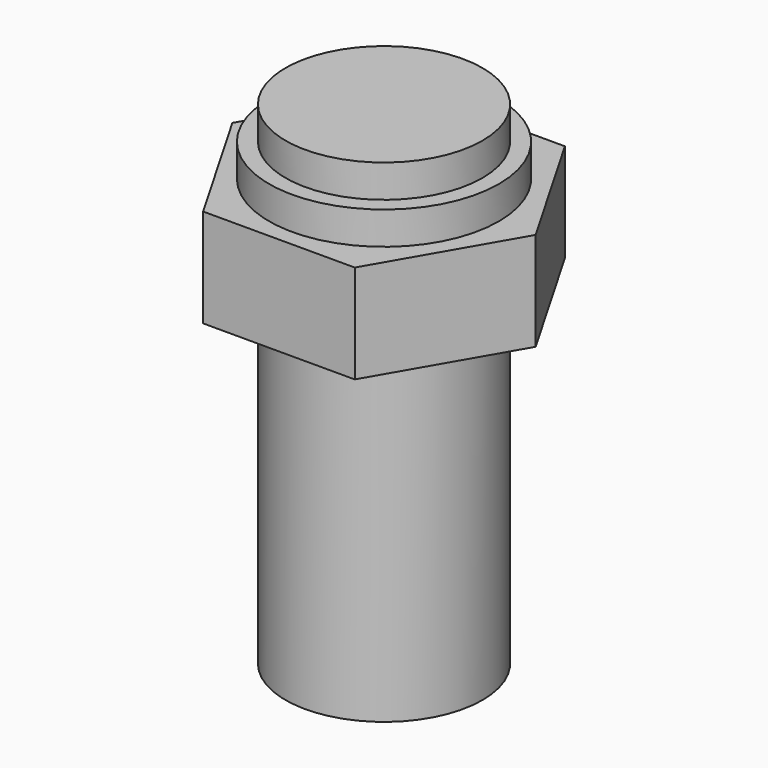
from build123d import *

# Parameters (mm, degrees)
F1_DEPTH = 4.7625
F2_R     = 4.7625
F3_DEPTH = 15.875
F4_R     = 5.55625
F5_DEPTH = 1.5875
F6_R     = 4.7625
F7_DEPTH = 1.5875


with BuildPart() as f1:
    # F0 (on Top) → F1 (new body)
    with BuildSketch(Plane.XY):
        Polygon((-3.6661742094, -6.35), (3.6661742094, -6.35), (7.3323484187, 0), (3.6661742094, 6.35), (-3.6661742094, 6.35), (-7.3323484187, 0), align=None)
    extrude(amount=F1_DEPTH)

    # F2 (on Top) → F3 (join)
    with BuildSketch(Plane.XY):
        Circle(F2_R)
    extrude(amount=-F3_DEPTH)

    # F4 (on face) → F5 (join)
    with BuildSketch(Plane.XY.offset(4.7625)):
        Circle(F4_R)
    extrude(amount=F5_DEPTH)

    # F6 (on face) → F7 (join)
    with BuildSketch(Plane.XY.offset(6.35)):
        Circle(F6_R)
    extrude(amount=F7_DEPTH)


solid = f1.part
